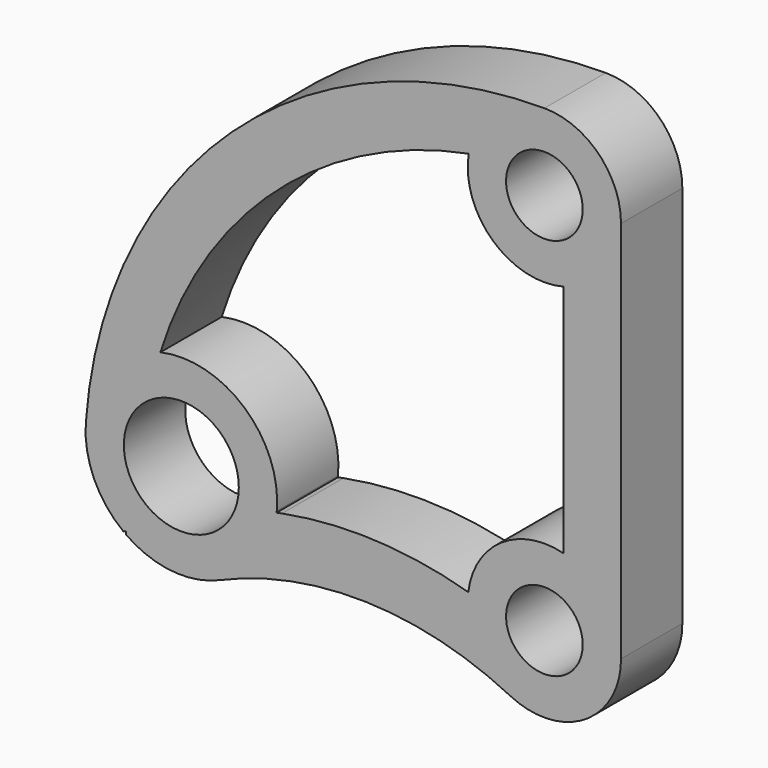
from build123d import *

# Parameters (mm, degrees)
F0_R     = 381
F0_R_2   = 254
F1_DEPTH = 508


with BuildPart() as f1:
    # F0 (on Front) → F1 (new body)
    with BuildSketch(Plane.XZ):
        with BuildLine():
            ThreePointArc((-2153.439948, -406.116764), (-1184.240499, -217.394864), (-225.8598, -455.028956))
            ThreePointArc((-225.8598, -455.028956), (267.700599, -431.741114), (508, 0))
            Line((508, 0), (508, 2540))
            ThreePointArc((508, 2540), (359.210245, 2899.210245), (0, 3048))
            ThreePointArc((0, 3048), (-2075.054127, 2232.589162), (-3039.857845, 222.639349))
            ThreePointArc((-3039.857845, 222.639349), (-2985.001858, -85.704194), (-2789.437832, -330.325598))
            ThreePointArc((-2789.437832, -330.325598), (-2782.50486, -325.404341), (-2775.556234, -320.505209))
            ThreePointArc((-2775.556234, -320.505209), (-2774.271038, -331.445636), (-2772.942717, -342.38091))
            ThreePointArc((-2772.942717, -342.38091), (-2471.54134, -455.409632), (-2153.439948, -406.116764))
        make_face()
        with Locations((-2406.554128, 176.256151)):
            Circle(F0_R, mode=Mode.SUBTRACT)
        Circle(F0_R_2, mode=Mode.SUBTRACT)
        with BuildLine():
            ThreePointArc((-1738.327809, 117.793924), (-1756.655618, 114.25766), (-1774.95823, 110.593211))
            ThreePointArc((-1774.95823, 110.593211), (-1774.443305, 115.750717), (-1773.970494, 120.912255))
            ThreePointArc((-1773.970494, 120.912255), (-1988.44304, 654.17677), (-2545.481542, 795.872302))
            ThreePointArc((-2545.481542, 795.872302), (-1775.587664, 1990.019459), (-501.76051, 2619.375))
            ThreePointArc((-501.76051, 2619.375), (-341.601016, 2164.004327), (127, 2048.131115))
            Line((127, 2048.131115), (127, 491.868885))
            ThreePointArc((127, 491.868885), (-286.676576, 419.38114), (-504.414113, 60.252824))
            ThreePointArc((-504.414113, 60.252824), (-1117.993696, 161.445586), (-1738.327809, 117.793924))
        make_face(mode=Mode.SUBTRACT)
        with Locations((0, 2540)):
            Circle(F0_R_2, mode=Mode.SUBTRACT)
    extrude(amount=F1_DEPTH)


solid = f1.part
